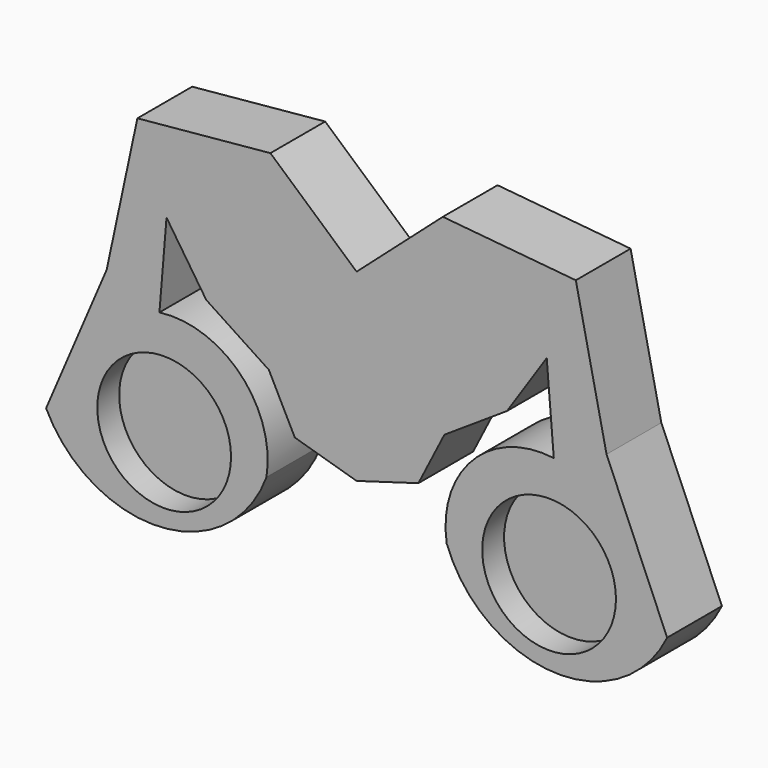
from build123d import *

# Parameters (mm, degrees)
F1_DEPTH = 25
F2_R     = 24.421294
F3_DEPTH = 10


with BuildPart() as f1:
    # F0 (on Front) → F1 (new body)
    with BuildSketch(Plane.XZ):
        with BuildLine():
            Line((31.471264, 61.649181), (0, 33.770531))
            Line((0, 33.770531), (-31.471264, 61.649181))
            Line((-31.471264, 61.649181), (-80.043346, 57.050642))
            Line((-80.043346, 57.050642), (-91.252282, 4.742245))
            Line((-91.252282, 4.742245), (-113.382764, -46.991333))
            ThreePointArc((-113.382764, -46.991333), (-71.814834, -71.593479), (-32.908306, -42.96761))
            ThreePointArc((-32.908306, -42.96761), (-42.353865, -13.03928), (-71.995899, -2.730383))
            Line((-71.995899, -2.730383), (-69.409221, 28.597172))
            Line((-69.409221, 28.597172), (-54.906481, 6.842339))
            Line((-54.906481, 6.842339), (-32.04608, -8.19115))
            Line((-32.04608, -8.19115), (-22.561586, -26.872721))
            Line((-22.561586, -26.872721), (0, -33.483122))
            Line((0, -33.483122), (22.561586, -26.872721))
            Line((22.561586, -26.872721), (32.04608, -8.19115))
            Line((32.04608, -8.19115), (54.906481, 6.842339))
            Line((54.906481, 6.842339), (69.409221, 28.597172))
            Line((69.409221, 28.597172), (71.995899, -2.730383))
            ThreePointArc((71.995899, -2.730383), (42.353865, -13.03928), (32.908306, -42.96761))
            ThreePointArc((32.908306, -42.96761), (71.814834, -71.593479), (113.382764, -46.991333))
            Line((113.382764, -46.991333), (91.252282, 4.742245))
            Line((91.252282, 4.742245), (80.043346, 57.050642))
            Line((80.043346, 57.050642), (31.471264, 61.649181))
        make_face()
    extrude(amount=F1_DEPTH)

    # F2 (on face) → F3 (cut)
    with BuildSketch(Plane.XZ.offset(25)):
        with Locations((-70.27144, -40.668339)):
            Circle(F2_R)
        with Locations((70.27144, -40.668339)):
            Circle(F2_R)
    extrude(amount=-F3_DEPTH, mode=Mode.SUBTRACT)


solid = f1.part
